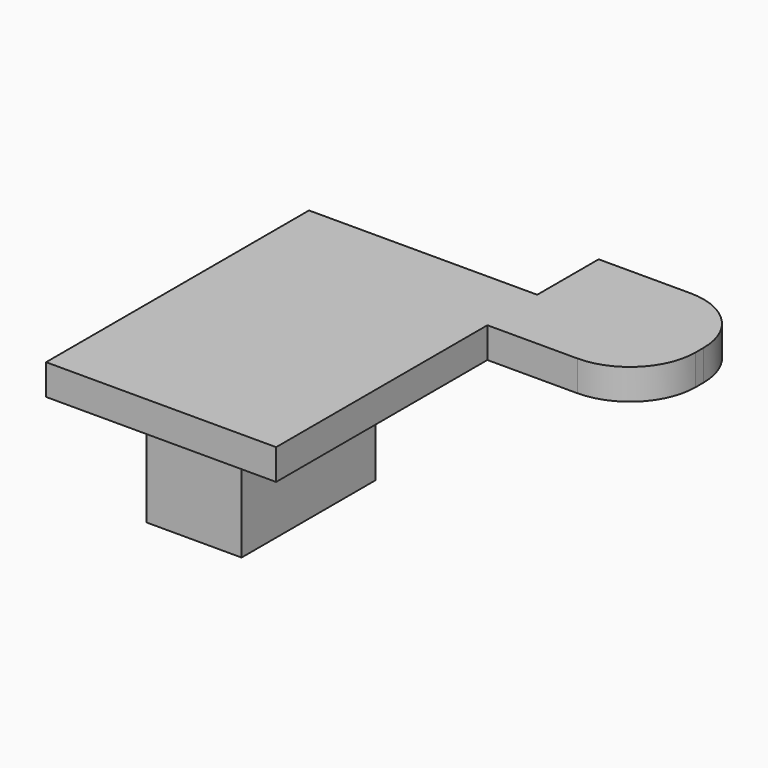
from build123d import *

# Parameters (mm, degrees)
F2_DEPTH = 5.9182
F0_W     = 44.45
F0_H     = 63.5
F3_DEPTH = 5.9182
F4_W     = 18.415
F4_H     = 32.385
F5_DEPTH = 20.32


with BuildPart() as f2:
    # F1 (on Top) → F2 (new body)
    with BuildSketch(Plane.XY):
        with BuildLine():
            Line((39.6100495338, 16.1036532372), (21.8759961426, 16.1036532372))
            Line((21.8759961426, 16.1036532372), (21.8759961426, -11.2066548318))
            Line((21.8759961426, -11.2066548318), (39.6100495338, -11.2066548318))
            ThreePointArc((39.6100495338, -11.2066548318), (48.5903056549, -7.4869109528), (52.3100495338, 1.4933451682))
            Line((52.3100495338, 1.4933451682), (52.3100495338, 3.4036532372))
            ThreePointArc((52.3100495338, 3.4036532372), (48.5903056549, 12.3839093583), (39.6100495338, 16.1036532372))
        make_face()
    extrude(amount=F2_DEPTH)

    # F0 (on Top) + F2_face (on face) → F3 (join)
    with BuildSketch(Plane.XY):
        with Locations((0, -30.48)):
            Rectangle(F0_W, F0_H)
    with BuildSketch(Plane(origin=(35.9682073334, 2.4484992027, 0), x_dir=(1, 0, 0), z_dir=(0, 0, -1))):
        with BuildLine():
            Line((-14.0922111908, -13.6551540345), (3.6418422005, -13.6551540345))
            ThreePointArc((3.6418422005, -13.6551540345), (12.6220983215, -9.9354101556), (16.3418422005, -0.9551540345))
            Line((16.3418422005, -0.9551540345), (16.3418422005, 0.9551540345))
            ThreePointArc((16.3418422005, 0.9551540345), (12.6220983215, 9.9354101556), (3.6418422005, 13.6551540345))
            Line((3.6418422005, 13.6551540345), (-14.0922111908, 13.6551540345))
            Line((-14.0922111908, 13.6551540345), (-14.0922111908, -13.6551540345))
        make_face()
    extrude(amount=F3_DEPTH, dir=(0, 0, 1))

    # F4 (on Top) → F5 (join)
    with BuildSketch(Plane.XY):
        with Locations((0, -38.1122922906)):
            Rectangle(F4_W, F4_H)
    extrude(amount=-F5_DEPTH)


solid = f2.part
